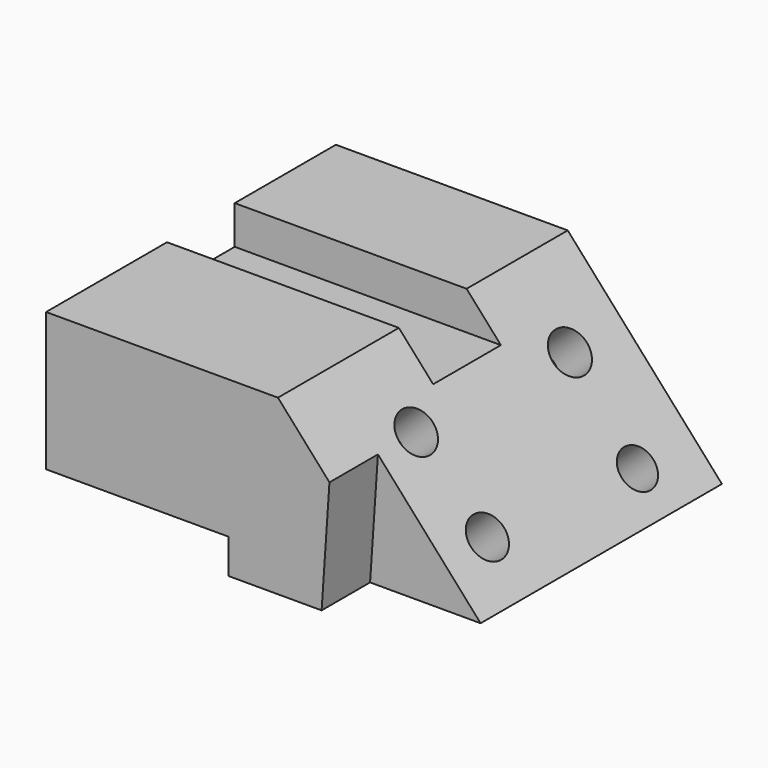
from build123d import *

# Parameters (mm, degrees)
F0_W      = 113.2952198386
F0_H      = 106.3001342118
F1_DEPTH  = 50.8
F3_DEPTH  = 106.3011342118
F4_W      = 24.8478278518
F4_H      = 11.2919552803
F5_DEPTH  = 113.2962198386
F6_R      = 6.1575495423
F6_R_2    = 6.1008384399
F6_R_3    = 6.2250154244
F6_R_4    = 5.8180696171
F7_DEPTH  = 12.7
F9_DEPTH  = 17.78
F11_DEPTH = 10.16


with BuildPart() as f1:
    # F0 (on Top) → F1 (new body)
    with BuildSketch(Plane.XY):
        with Locations((-11.4009939134, -2.1379012614)):
            Rectangle(F0_W, F0_H)
    extrude(amount=F1_DEPTH)

    # F2 (on face) → F3 (cut, through all)
    with BuildSketch(Plane.XZ.offset(55.2879683673)):
        Polygon((0, 50.8), (45.2466160059, 0), (45.2466160059, 50.8), align=None)
    extrude(amount=-F3_DEPTH, mode=Mode.SUBTRACT)

    # F4 (on face) → F5 (cut, through all)
    with BuildSketch(Plane(origin=(-68.0486038327, 0, 0), x_dir=(0, -1, 0), z_dir=(-1, 0, 0))):
        with Locations((-1.490868628, 45.1540223598)):
            Rectangle(F4_W, F4_H)
    extrude(amount=-F5_DEPTH, mode=Mode.SUBTRACT)

    # F6 (on face) → F7 (cut)
    with BuildSketch(Plane(origin=(25.2307356453, 0, 22.4725473876), x_dir=(0, 1, 0), z_dir=(0.7467442801, 0, 0.6651112539))):
        with Locations((-23.4444309026, 15.2448490262)):
            Circle(F6_R)
        with Locations((-21.4417409152, -13.7552563101)):
            Circle(F6_R_2)
        with Locations((31.4639918506, 13.4591702372)):
            Circle(F6_R_3)
        with Locations((30.6235197932, -17.3407215625)):
            Circle(F6_R_4)
    extrude(amount=-F7_DEPTH, mode=Mode.SUBTRACT)

    # F8 (on face) → F9 (cut)
    with BuildSketch(Plane.XZ.offset(55.2879683673)):
        Polygon((15.1122735132, 33.832908044), (12.8093063831, 0), (45.2466160059, 0), align=None)
    extrude(amount=-F9_DEPTH, mode=Mode.SUBTRACT)

    # F10 (on face) → F11 (cut)
    with BuildSketch(Plane(origin=(0, 0, 0), x_dir=(1, 0, 0), z_dir=(0, 0, -1))):
        Polygon((-14.4420871511, 35.5851622298), (-14.4420871511, 55.2879683673), (-68.0486038327, 55.2879683673), (-68.0486038327, 42.1527642757), (-68.0486038327, 35.5851622298), align=None)
    extrude(amount=-F11_DEPTH, mode=Mode.SUBTRACT)


solid = f1.part
